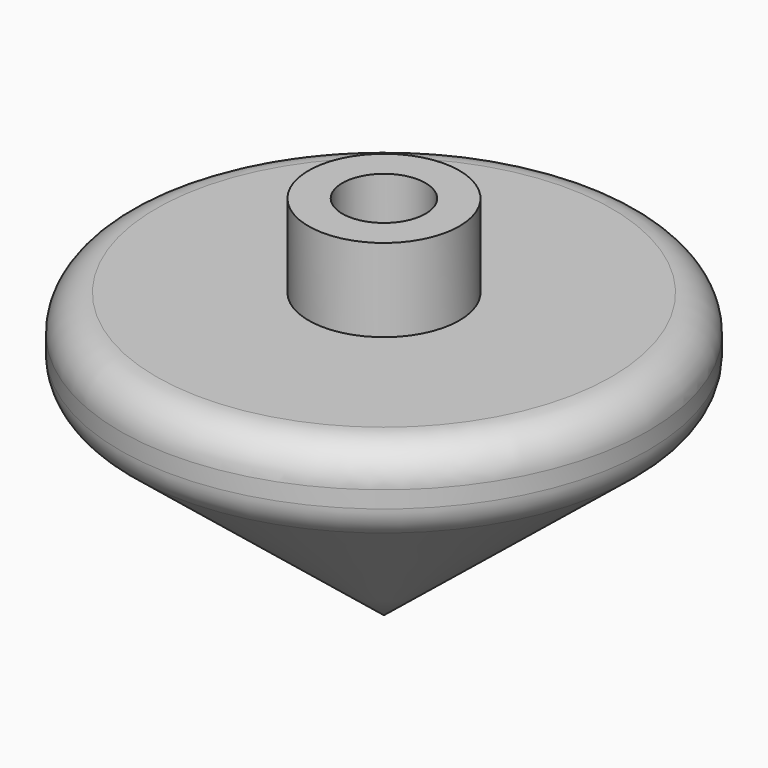
from build123d import *

# Parameters (mm, degrees)
F2_R     = 4.7625
F3_DEPTH = 25.4


with BuildPart() as f1:
    # F0 (on Front) → F1 (revolve)
    with BuildSketch(Plane.XZ):
        with BuildLine():
            Line((0, 42.019643), (0, 0))
            Line((0, 0), (28.681616, 23.218453))
            ThreePointArc((28.681616, 23.218453), (29.815411, 24.656318), (30.219601, 26.442256))
            Line((30.219601, 26.442256), (30.219601, 28.374322))
            ThreePointArc((30.219601, 28.374322), (29.004759, 31.30721), (26.071871, 32.522053))
            Line((26.071871, 32.522053), (8.634172, 32.522053))
            Line((8.634172, 32.522053), (8.634172, 42.019643))
            Line((8.634172, 42.019643), (0, 42.019643))
        make_face()
    revolve(axis=Axis((0, 0, 21.009821), (0, 0, -1)))

    # F2 (on face) → F3 (cut)
    with BuildSketch(Plane.XY.offset(42.019643)):
        Circle(F2_R)
    extrude(amount=-F3_DEPTH, mode=Mode.SUBTRACT)


solid = f1.part
